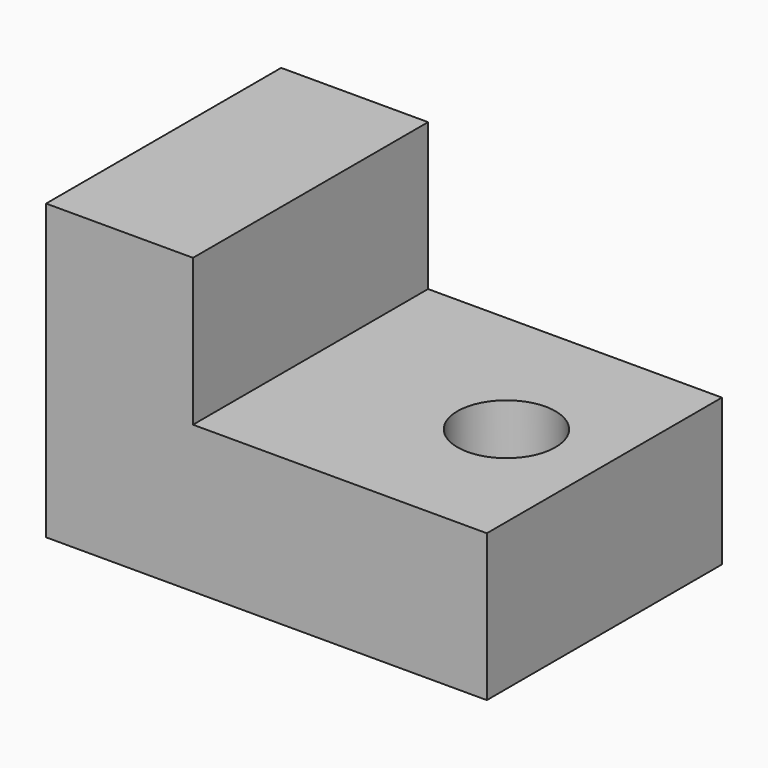
from build123d import *

# Parameters (mm, degrees)
F1_DEPTH = 76.2
F3_D     = 50.8


with BuildPart() as f1:
    # F0 (on Front) → F1 (new body, symmetric)
    with BuildSketch(Plane.XZ):
        Polygon((-228.6, 0), (0, 0), (0, 76.2), (-152.4, 76.2), (-152.4, 152.4), (-228.6, 152.4), align=None)
    extrude(amount=F1_DEPTH, both=True)

    # F3 (through all)
    with Locations(Plane.XY.offset(76.2)):
        with Locations((-50.8, 0)):
            Hole(F3_D / 2)


solid = f1.part
